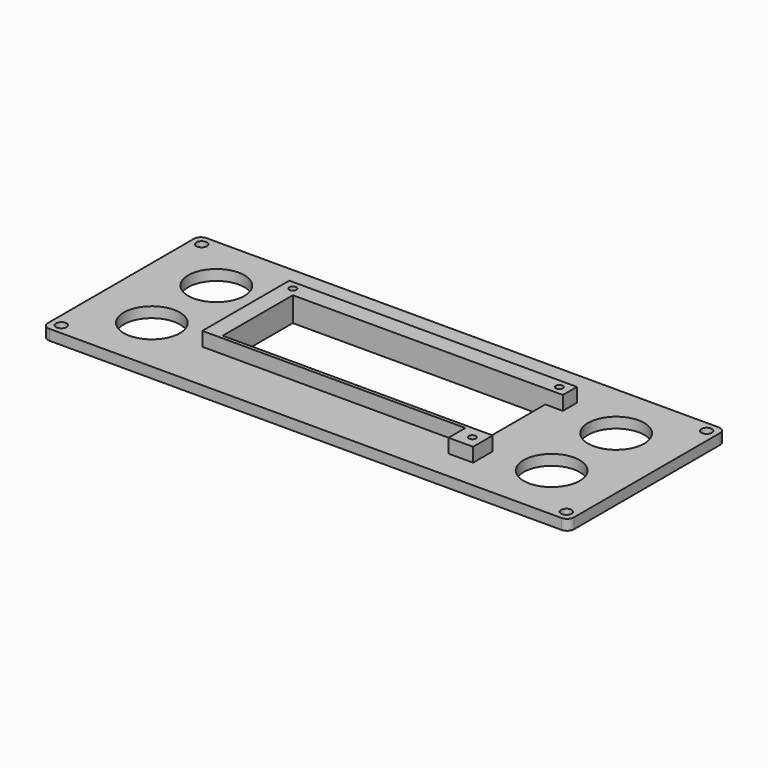
from build123d import *

# Parameters (mm, degrees)
SKETCH_W        = 150
SKETCH_H        = 56
SKETCH_R        = 8
SKETCH_W_2      = 72
SKETCH_H_2      = 25
PAD_DEPTH       = 3
PAD001_DEPTH    = 4
SKETCH002_R     = 1.5
POCKET_DEPTH    = 5
SKETCH003_R     = 1
POCKET001_DEPTH = 5
FILLET_R        = 2


with BuildPart() as part:
    # Sketch → Pad (new body)
    with BuildSketch(Plane.XY):
        with Locations((75, 28)):
            Rectangle(SKETCH_W, SKETCH_H)
        with Locations((18, 16.5)):
            Circle(SKETCH_R, mode=Mode.SUBTRACT)
        with Locations((18, 39.5)):
            Circle(SKETCH_R, mode=Mode.SUBTRACT)
        with Locations((132, 16.5)):
            Circle(SKETCH_R, mode=Mode.SUBTRACT)
        with Locations((132, 39.5)):
            Circle(SKETCH_R, mode=Mode.SUBTRACT)
        with Locations((75, 28)):
            Rectangle(SKETCH_W_2, SKETCH_H_2, mode=Mode.SUBTRACT)
    extrude(amount=PAD_DEPTH)

    # Sketch001 (on Face14 of Pad) → Pad001 (join)
    with BuildSketch(Plane.XY.offset(3)):
        Polygon((39, 15.5), (111, 15.5), (116, 15.5), (116, 8.5), (109, 8.5), (109, 14.5), (34, 14.5), (34, 45.5), (111, 45.5), (116, 45.5), (116, 40.5), (111, 40.5), (39, 40.5), align=None)
    extrude(amount=PAD001_DEPTH)

    # Sketch002 (on Face5 of Pad001) → Pocket (cut)
    with BuildSketch(Plane.XY.offset(3)):
        with Locations((3, 53)):
            Circle(SKETCH002_R)
        with Locations((147, 53)):
            Circle(SKETCH002_R)
        with Locations((3, 3)):
            Circle(SKETCH002_R)
        with Locations((147, 3)):
            Circle(SKETCH002_R)
    extrude(amount=-POCKET_DEPTH, mode=Mode.SUBTRACT)

    # Sketch003 (on Face32 of Pocket) → Pocket001 (cut)
    with BuildSketch(Plane.XY.offset(7)):
        with Locations((37, 43)):
            Circle(SKETCH003_R)
        with Locations((113, 43)):
            Circle(SKETCH003_R)
        with Locations((113, 12)):
            Circle(SKETCH003_R)
    extrude(amount=-POCKET001_DEPTH, mode=Mode.SUBTRACT)

    # Fillet
    fillet_edges = [part.edges().sort_by_distance(p)[0] for p in [
        (0, 0, 1.5),
        (0, 56, 1.5),
        (150, 0, 1.5),
        (150, 56, 1.5),
    ]]
    fillet(fillet_edges, radius=FILLET_R)


solid = part.part
